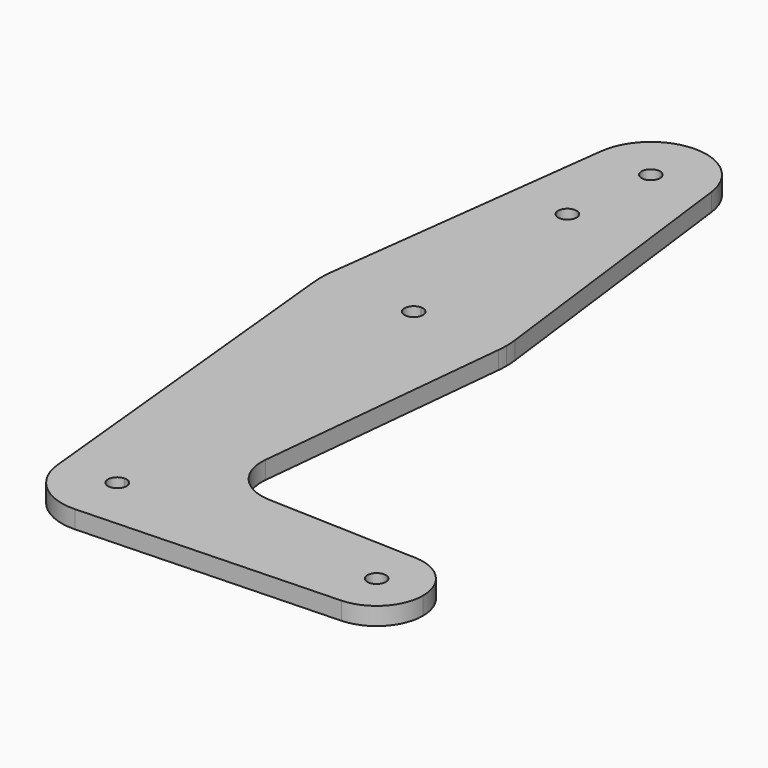
from build123d import *

# Parameters (mm, degrees)
F0_R     = 1.5875
F1_DEPTH = 3.048


with BuildPart() as f1:
    # F0 (on Top) → F1 (new body)
    with BuildSketch(Plane.XY):
        with BuildLine():
            ThreePointArc((-9.4772553384, -0.9525), (-7.063929059, 6.3895642457), (0, 9.525))
            Line((0, 9.525), (0, 47.625))
            ThreePointArc((0, 47.625), (-10.6492737428, 51.7267849017), (-15.7954255641, 61.9125))
            Line((-15.7954255641, 61.9125), (-9.4772553384, -0.9525))
        make_face()
        with BuildLine():
            Line((0, 98.4016149346), (0, 79.375))
            ThreePointArc((0, 79.375), (10.5003255158, 75.40625), (15.7504882737, 65.484375))
            Line((15.7504882737, 65.484375), (9.4502929642, 115.490625))
            ThreePointArc((9.4502929642, 115.490625), (9.5063048942, 114.896483242), (9.525, 114.3))
            ThreePointArc((9.525, 114.3), (6.7351920908, 107.5648079092), (0, 104.775))
            Line((0, 104.775), (0, 98.4016149346))
        make_face()
        with BuildLine():
            ThreePointArc((9.4502929642, 115.490625), (0, 123.825), (-9.4502929642, 115.490625))
            ThreePointArc((-9.4502929642, 115.490625), (-7.14375, 107.9998046905), (0, 104.775))
            ThreePointArc((0, 104.775), (6.7351920908, 107.5648079092), (9.525, 114.3))
            ThreePointArc((9.525, 114.3), (9.5063048942, 114.896483242), (9.4502929642, 115.490625))
        make_face()
        with BuildLine():
            ThreePointArc((1.5875, 114.3), (1.1225320151, 113.1774679849), (0, 112.7125))
            ThreePointArc((0, 112.7125), (-1.1225320151, 115.4225320151), (1.5875, 114.3))
        make_face(mode=Mode.SUBTRACT)
        with BuildLine():
            Line((36.5125, 0), (9.525, 0))
            ThreePointArc((9.525, 0), (6.8544082857, -6.6138273378), (0.3401785714, -9.5189234444))
            Line((0.3401785714, -9.5189234444), (44.7334821429, -7.9324362036))
            ThreePointArc((44.7334821429, -7.9324362036), (38.9384772185, -5.7120069047), (36.5125, 0))
        make_face()
        with BuildLine():
            ThreePointArc((44.7334821429, 7.9324362036), (38.9384772185, 5.7120069047), (36.5125, 0))
            ThreePointArc((36.5125, 0), (38.9384772185, -5.7120069047), (44.7334821429, -7.9324362036))
            ThreePointArc((44.7334821429, -7.9324362036), (50.1620069047, -5.5115227815), (52.3875, 0))
            ThreePointArc((52.3875, 0), (50.1620069047, 5.5115227815), (44.7334821429, 7.9324362036))
        make_face()
        with BuildLine():
            ThreePointArc((46.0375, 0), (44.45, -1.5875), (42.8625, 0))
            ThreePointArc((42.8625, 0), (44.45, 1.5875), (46.0375, 0))
        make_face(mode=Mode.SUBTRACT)
        with BuildLine():
            ThreePointArc((1.5875, 0), (-1.1225320151, -1.1225320151), (0, 1.5875))
            Line((0, 1.5875), (0, 9.525))
            ThreePointArc((0, 9.525), (-7.063929059, 6.3895642457), (-9.4772553384, -0.9525))
            ThreePointArc((-9.4772553384, -0.9525), (-6.2623833816, -7.1769199091), (0.3401785714, -9.5189234444))
            ThreePointArc((0.3401785714, -9.5189234444), (6.8544082857, -6.6138273378), (9.525, 0))
            Line((9.525, 0), (1.5875, 0))
        make_face()
        with BuildLine():
            Line((0, 61.9125), (0, 47.625))
            ThreePointArc((0, 47.625), (10.6492737428, 51.7267849017), (15.7954255641, 61.9125))
            ThreePointArc((15.7954255641, 61.9125), (15.8550939106, 62.7052534459), (15.875, 63.5))
            ThreePointArc((15.875, 63.5), (15.8438414904, 64.4941387366), (15.7504882737, 65.484375))
            ThreePointArc((15.7504882737, 65.484375), (10.5003255158, 75.40625), (0, 79.375))
            Line((0, 79.375), (0, 65.0875))
            ThreePointArc((0, 65.0875), (1.1225320151, 64.6225320151), (1.5875, 63.5))
            ThreePointArc((1.5875, 63.5), (1.1225320151, 62.3774679849), (0, 61.9125))
        make_face()
        with BuildLine():
            ThreePointArc((-15.7954255641, 61.9125), (-10.6492737428, 51.7267849017), (0, 47.625))
            Line((0, 47.625), (0, 61.9125))
            ThreePointArc((0, 61.9125), (-1.5875, 63.5), (0, 65.0875))
            Line((0, 65.0875), (0, 79.375))
            ThreePointArc((0, 79.375), (-10.5003255158, 75.40625), (-15.7504882737, 65.484375))
            ThreePointArc((-15.7504882737, 65.484375), (-15.8737438155, 63.6997054867), (-15.7954255641, 61.9125))
        make_face()
        with BuildLine():
            Line((-9.4502929642, 115.490625), (-15.7504882737, 65.484375))
            ThreePointArc((-15.7504882737, 65.484375), (-10.5003255158, 75.40625), (0, 79.375))
            Line((0, 79.375), (0, 98.4016149346))
            Line((0, 98.4016149346), (0, 104.775))
            ThreePointArc((0, 104.775), (-7.14375, 107.9998046905), (-9.4502929642, 115.490625))
        make_face()
        with Locations((-1.5875, 98.4016149346)):
            Circle(F0_R, mode=Mode.SUBTRACT)
        with BuildLine():
            Line((0, 47.625), (0, 9.525))
            ThreePointArc((0, 9.525), (6.7351920908, 6.7351920908), (9.525, 0))
            Line((9.525, 0), (36.5125, 0))
            ThreePointArc((36.5125, 0), (38.9384772185, 5.7120069047), (44.7334821429, 7.9324362036))
            Line((44.7334821429, 7.9324362036), (18.9676000005, 8.8532337108))
            ThreePointArc((18.9676000005, 8.8532337108), (13.2611998974, 11.5713591498), (11.3411865923, 17.5933818124))
            Line((11.3411865923, 17.5933818124), (15.7954255641, 61.9125))
            ThreePointArc((15.7954255641, 61.9125), (10.6492737428, 51.7267849017), (0, 47.625))
        make_face()
        with BuildLine():
            Line((0, 9.525), (0, 1.5875))
            ThreePointArc((0, 1.5875), (1.1225320151, 1.1225320151), (1.5875, 0))
            Line((1.5875, 0), (9.525, 0))
            ThreePointArc((9.525, 0), (6.7351920908, 6.7351920908), (0, 9.525))
        make_face()
    extrude(amount=F1_DEPTH)


solid = f1.part
